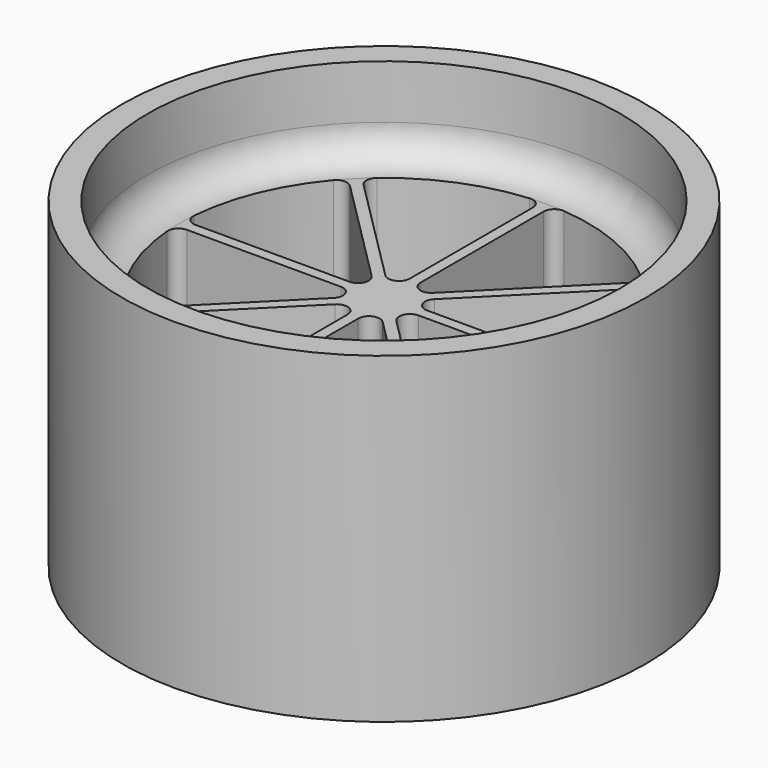
from build123d import *

# Parameters (mm, degrees)
F0_R     = 24.385
F1_DEPTH = 30
F2_R     = 22
F3_DEPTH = 8
F4_R     = 3
F6_DEPTH = 20
F7_R     = 1


with BuildPart() as f1:
    # F0 (on Top) → F1 (new body)
    with BuildSketch(Plane.XY):
        Circle(F0_R)
    extrude(amount=F1_DEPTH)

    # F2 (on face) → F3 (cut)
    with BuildSketch(Plane.XY.offset(30)):
        Circle(F2_R)
    extrude(amount=-F3_DEPTH, mode=Mode.SUBTRACT)

    # F4
    f4_edges = [f1.edges().sort_by_distance(p)[0] for p in [
        (-22, 0, 22),
    ]]
    fillet(f4_edges, radius=F4_R)

    # F5 (on face) → F6 (cut)
    with BuildSketch(Plane.XY.offset(22)):
        with BuildLine():
            Line((-1.2082039889, -0.5004544783), (-18.9934079437, -0.5004544783))
            ThreePointArc((-18.9934079437, -0.5004544783), (-17.5537111177, -7.2709852149), (-13.7842423101, -13.0764927995))
            Line((-13.7842423101, -13.0764927995), (-1.2082039889, -0.5004544783))
        make_face()
        with BuildLine():
            ThreePointArc((-13.7842423101, 13.0764927995), (-17.5537111177, 7.2709852149), (-18.9934079437, 0.5004544783))
            Line((-18.9934079437, 0.5004544783), (-1.2082039889, 0.5004544783))
            Line((-1.2082039889, 0.5004544783), (-13.7842423101, 13.0764927995))
        make_face()
        with BuildLine():
            Line((-0.5004544783, -1.2082039889), (-13.0764927995, -13.7842423101))
            ThreePointArc((-13.0764927995, -13.7842423101), (-7.2709852149, -17.5537111177), (-0.5004544783, -18.9934079437))
            Line((-0.5004544783, -18.9934079437), (-0.5004544783, -1.2082039889))
        make_face()
        with BuildLine():
            Line((0.5004544783, -1.2082039889), (0.5004544783, -18.9934079437))
            ThreePointArc((0.5004544783, -18.9934079437), (7.2709852149, -17.5537111177), (13.0764927995, -13.7842423101))
            Line((13.0764927995, -13.7842423101), (0.5004544783, -1.2082039889))
        make_face()
        with BuildLine():
            Line((1.2082039889, -0.5004544783), (13.7842423101, -13.0764927995))
            ThreePointArc((13.7842423101, -13.0764927995), (17.5537111177, -7.2709852149), (18.9934079437, -0.5004544783))
            Line((18.9934079437, -0.5004544783), (1.2082039889, -0.5004544783))
        make_face()
        with BuildLine():
            Line((1.2082039889, 0.5004544783), (18.9934079437, 0.5004544783))
            ThreePointArc((18.9934079437, 0.5004544783), (17.5537111177, 7.2709852149), (13.7842423101, 13.0764927995))
            Line((13.7842423101, 13.0764927995), (1.2082039889, 0.5004544783))
        make_face()
        with BuildLine():
            Line((0.5004544783, 1.2082039889), (13.0764927995, 13.7842423101))
            ThreePointArc((13.0764927995, 13.7842423101), (7.2709852149, 17.5537111177), (0.5004544783, 18.9934079437))
            Line((0.5004544783, 18.9934079437), (0.5004544783, 1.2082039889))
        make_face()
        with BuildLine():
            Line((-0.5004544783, 1.2082039889), (-0.5004544783, 18.9934079437))
            ThreePointArc((-0.5004544783, 18.9934079437), (-7.2709852149, 17.5537111177), (-13.0764927995, 13.7842423101))
            Line((-13.0764927995, 13.7842423101), (-0.5004544783, 1.2082039889))
        make_face()
    extrude(amount=-F6_DEPTH, mode=Mode.SUBTRACT)

    # F7
    f7_edges = [f1.edges().sort_by_distance(p)[0] for p in [
        (-18.993408, 0.500454, 12),
        (-18.993408, -0.500454, 12),
        (-13.076493, 13.784242, 12),
        (-13.784242, 13.076493, 12),
        (0.500454, 18.993408, 12),
        (-0.500454, 18.993408, 12),
        (13.076493, 13.784242, 12),
        (13.784242, 13.076493, 12),
        (18.993408, 0.500454, 12),
        (18.993408, -0.500454, 12),
        (13.076493, -13.784242, 12),
        (13.784242, -13.076493, 12),
        (0.500454, -18.993408, 12),
        (-0.500454, -18.993408, 12),
        (-13.076493, -13.784242, 12),
        (-13.784242, -13.076493, 12),
        (-0.500454, -1.208204, 12),
        (-1.208204, -0.500454, 12),
        (-1.208204, 0.500454, 12),
        (-0.500454, 1.208204, 12),
        (0.500454, 1.208204, 12),
        (1.208204, 0.500454, 12),
        (1.208204, -0.500454, 12),
        (0.500454, -1.208204, 12),
    ]]
    fillet(f7_edges, radius=F7_R)


solid = f1.part
